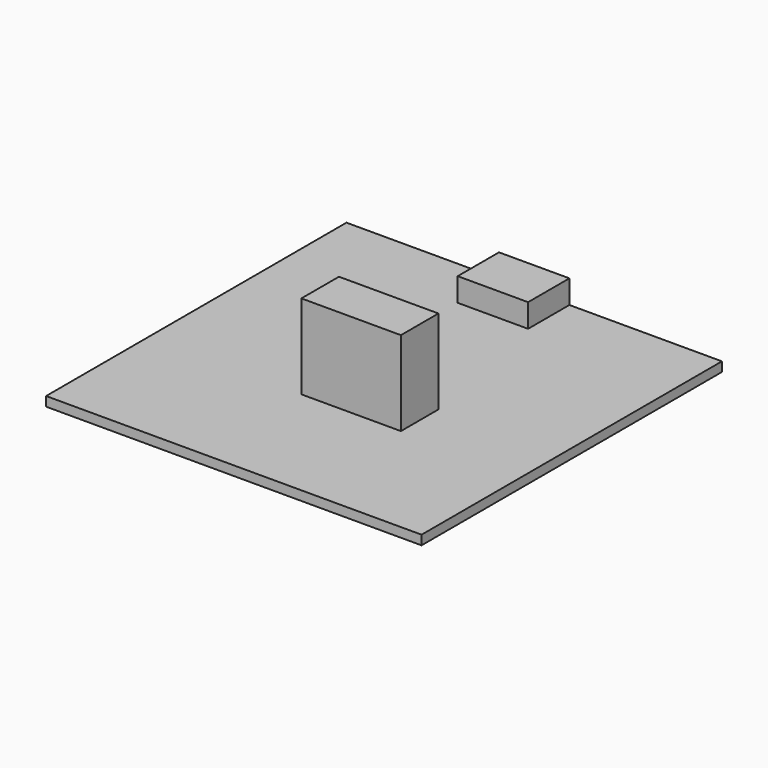
from build123d import *

# Parameters (mm, degrees)
F0_W     = 40
F0_H     = 40
F1_DEPTH = 1
F2_W     = 10.6
F2_H     = 5
F3_DEPTH = 9
F2_W_2   = 7.5
F2_H_2   = 5.5
F4_DEPTH = 2.5


with BuildPart() as f1:
    # F0 (on Top) → F1 (new body)
    with BuildSketch(Plane.XY):
        Rectangle(F0_W, F0_H)
    extrude(amount=F1_DEPTH)

    # F2 (on face) → F3 (join)
    with BuildSketch(Plane.XY.offset(1)):
        with Locations((1.7, -4)):
            Rectangle(F2_W, F2_H)
    extrude(amount=F3_DEPTH)

    # F2 (on face) → F4 (join)
    with BuildSketch(Plane.XY.offset(1)):
        with Locations((0, 17.25)):
            Rectangle(F2_W_2, F2_H_2)
    extrude(amount=F4_DEPTH)


solid = f1.part
